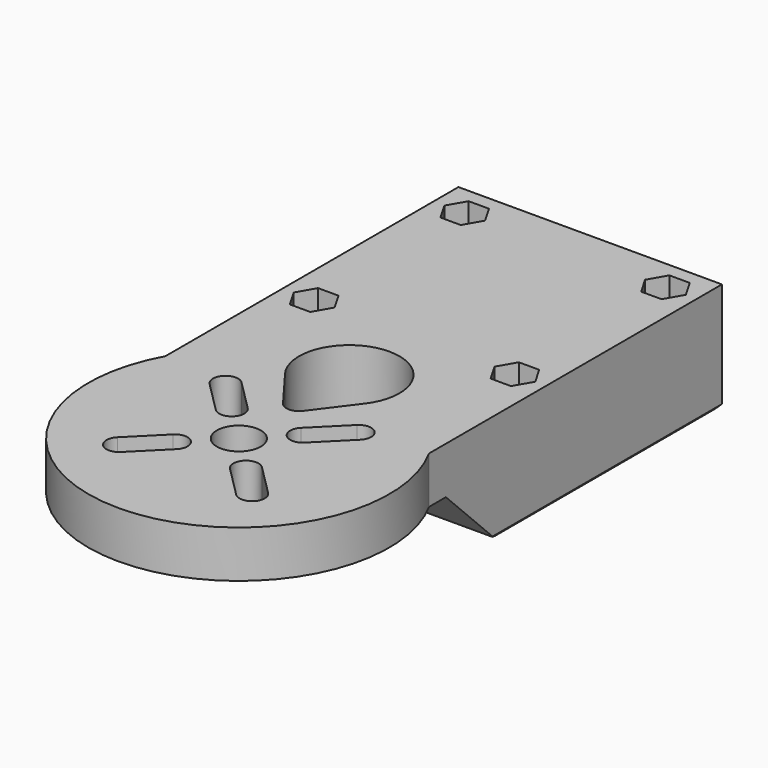
from build123d import *

# Parameters (mm, degrees)
EXTRUDE006_DEPTH                     = 10
SKETCH006_AS_DRAWN_R                 = 9
EXTRUDE005_DEPTH                     = 27
EXTRUDE005_ONTO_SKETCH006_ROLL_ANGLE = 90
SKETCH_R                             = 3.5
SKETCH_R_2                           = 1.75
EXTRUDE_DEPTH                        = 30
SKETCH001_AS_DRAWN_R                 = 12.5
EXTRUDE004_DEPTH                     = 50
EXTRUDE004_ONTO_SKETCH001_ROLL_ANGLE = 90
EXTRUDE002_DEPTH                     = 60
SKETCH003_AS_DRAWN_W                 = 50
SKETCH003_AS_DRAWN_H                 = 17.5
EXTRUDE003_DEPTH                     = 98
EXTRUDE003_ONTO_SKETCH003_ROLL_ANGLE = 90
CHAMFER_SIZE                         = 0.7


with BuildPart() as extrude006:
    # Sketch008 → Extrude006 (new body)
    with BuildSketch(Plane(origin=(0, 40, 0), x_dir=(1, 0, 0), z_dir=(0, 0, 1))):
        Polygon((-17.625, -2.185417), (-14.375, -2.185417), (-12.75, -5), (-14.375, -7.814583), (-17.625, -7.814583), (-19.25, -5), align=None)
        Polygon((14.375, -2.185417), (17.625, -2.185417), (19.25, -5), (17.625, -7.814583), (14.375, -7.814583), (12.75, -5), align=None)
        Polygon((14.375, 27.814583), (17.625, 27.814583), (19.25, 25), (17.625, 22.185417), (14.375, 22.185417), (12.75, 25), align=None)
        Polygon((-17.625, 27.814583), (-14.375, 27.814583), (-12.75, 25), (-14.375, 22.185417), (-17.625, 22.185417), (-19.25, 25), align=None)
    extrude(amount=EXTRUDE006_DEPTH)


with BuildPart() as extrude006_1:
    # Extrude006 placement: moved
    add(extrude006.part.moved(Location((0, 0, 9))))


with BuildPart() as extrude005:
    # Sketch006 as drawn → Extrude005 (new)
    with BuildSketch(Plane.XY):
        Circle(SKETCH006_AS_DRAWN_R)
    extrude(amount=-EXTRUDE005_DEPTH)


with BuildPart() as extrude005_1:
    # Extrude005 onto Sketch006 roll: moved
    add(extrude005.part.rotate(Axis((0, 0, 0), (1, 0, 0)), EXTRUDE005_ONTO_SKETCH006_ROLL_ANGLE))


with BuildPart() as extrude005_2:
    # Extrude005 onto Sketch006 placement: moved
    add(extrude005_1.part.moved(Location((0, 33, 0))))


with BuildPart() as extrude005_3:
    # Extrude005 placement: moved
    add(extrude005_2.part.moved(Location((0, -18, 0))))


with BuildPart() as extrude_body:
    # Sketch → Extrude (new body)
    with BuildSketch(Plane.XY):
        Circle(SKETCH_R)
        with Locations((-16, 35)):
            Circle(SKETCH_R_2)
        with Locations((-16, 65)):
            Circle(SKETCH_R_2)
        with Locations((16, 65)):
            Circle(SKETCH_R_2)
        with Locations((16, 35)):
            Circle(SKETCH_R_2)
        with BuildLine():
            ThreePointArc((-12.020815, -9.192388), (-12.020815, -12.020815), (-9.192388, -12.020815))
            Line((-9.192388, -12.020815), (-4.242641, -7.071068))
            ThreePointArc((-4.242641, -7.071068), (-4.242641, -4.242641), (-7.071068, -4.242641))
            Line((-12.020815, -9.192388), (-7.071068, -4.242641))
        make_face()
        with BuildLine():
            ThreePointArc((7.071068, -4.242641), (4.242641, -4.242641), (4.242641, -7.071068))
            Line((4.242641, -7.071068), (9.192388, -12.020815))
            ThreePointArc((9.192388, -12.020815), (12.020815, -12.020815), (12.020815, -9.192388))
            Line((7.071068, -4.242641), (12.020815, -9.192388))
        make_face()
        with BuildLine():
            ThreePointArc((4.242641, 7.071068), (4.242641, 4.242641), (7.071068, 4.242641))
            Line((7.071068, 4.242641), (12.020815, 9.192388))
            ThreePointArc((12.020815, 9.192388), (12.020815, 12.020815), (9.192388, 12.020815))
            Line((4.242641, 7.071068), (9.192388, 12.020815))
        make_face()
        with BuildLine():
            ThreePointArc((-9.192388, 12.020815), (-12.020815, 12.020815), (-12.020815, 9.192388))
            Line((-12.020815, 9.192388), (-7.071068, 4.242641))
            ThreePointArc((-7.071068, 4.242641), (-4.242641, 4.242641), (-4.242641, 7.071068))
            Line((-9.192388, 12.020815), (-4.242641, 7.071068))
        make_face()
        with BuildLine():
            ThreePointArc((6.4, 17.2), (0, 30), (-6.4, 17.2))
            Line((-6.4, 17.2), (-1.6, 10.8))
            ThreePointArc((-1.6, 10.8), (0, 10), (1.6, 10.8))
            Line((6.4, 17.2), (1.6, 10.8))
        make_face()
        with BuildLine():
            ThreePointArc((-21, 11.61895), (0, -24), (21, 11.61895))
            Line((21, 70), (21, 11.61895))
            Line((30, 70), (21, 70))
            Line((30, -30), (30, 70))
            Line((-30, -30), (30, -30))
            Line((-30, 70), (-30, -30))
            Line((-21, 70), (-30, 70))
            Line((-21, 11.61895), (-21, 70))
        make_face()
    extrude(amount=EXTRUDE_DEPTH)


with BuildPart() as extrude004:
    # Sketch001 as drawn → Extrude004 (new)
    with BuildSketch(Plane.XY):
        Circle(SKETCH001_AS_DRAWN_R)
    extrude(amount=-EXTRUDE004_DEPTH)


with BuildPart() as extrude004_1:
    # Extrude004 onto Sketch001 roll: moved
    add(extrude004.part.rotate(Axis((0, 0, 0), (1, 0, 0)), EXTRUDE004_ONTO_SKETCH001_ROLL_ANGLE))


with BuildPart() as extrude004_2:
    # Extrude004 onto Sketch001 placement: moved
    add(extrude004_1.part.moved(Location((0, 32, 0))))


with BuildPart() as extrude004_3:
    # Extrude004 placement: moved
    add(extrude004_2.part.moved(Location((0, -1, 0))))


with BuildPart() as extrude002:
    # Sketch002 → Extrude002 (new body)
    with BuildSketch(Plane.YZ.offset(33)):
        Polygon((-30, 10), (15, 10), (25, 0), (-30, 0), align=None)
    extrude(amount=-EXTRUDE002_DEPTH)


with BuildPart() as chamfer_body:
    # Sketch003 as drawn → Extrude003 (new)
    with BuildSketch(Plane.XY):
        with Locations((0, 8.75)):
            Rectangle(SKETCH003_AS_DRAWN_W, SKETCH003_AS_DRAWN_H)
    extrude(amount=-EXTRUDE003_DEPTH)


with BuildPart() as chamfer_body_1:
    # Extrude003 onto Sketch003 roll: moved
    add(chamfer_body.part.rotate(Axis((0, 0, 0), (1, 0, 0)), EXTRUDE003_ONTO_SKETCH003_ROLL_ANGLE))


with BuildPart() as chamfer_body_2:
    # Extrude003 onto Sketch003 placement: moved
    add(chamfer_body_1.part.moved(Location((0, -28, 0))))

    # Cut: cut Extrude002
    add(extrude002.part, mode=Mode.SUBTRACT)

    # Cut001: cut Extrude004
    add(extrude004_3.part, mode=Mode.SUBTRACT)

    # Cut002: cut Extrude body
    add(extrude_body.part, mode=Mode.SUBTRACT)

    # Cut003: cut Extrude005
    add(extrude005_3.part, mode=Mode.SUBTRACT)

    # Cut004: cut Extrude006
    add(extrude006_1.part, mode=Mode.SUBTRACT)

    # Chamfer
    chamfer_edges = [chamfer_body_2.edges().sort_by_distance(p)[0] for p in [
        (-21, 47.5, 0),
        (16.75, 70, 0),
        (0, 70, 12.5),
        (-16.75, 70, 0),
        (21, 47.5, 0),
        (-15, 25, 0),
        (-9, 28, 0),
        (-12.5, 50.5, 0),
        (-10.75, 31, 0),
        (15, 25, 0),
        (9, 28, 0),
        (10.75, 31, 0),
        (12.5, 50.5, 0),
    ]]
    chamfer(chamfer_edges, length=CHAMFER_SIZE)


solid = chamfer_body_2.part
